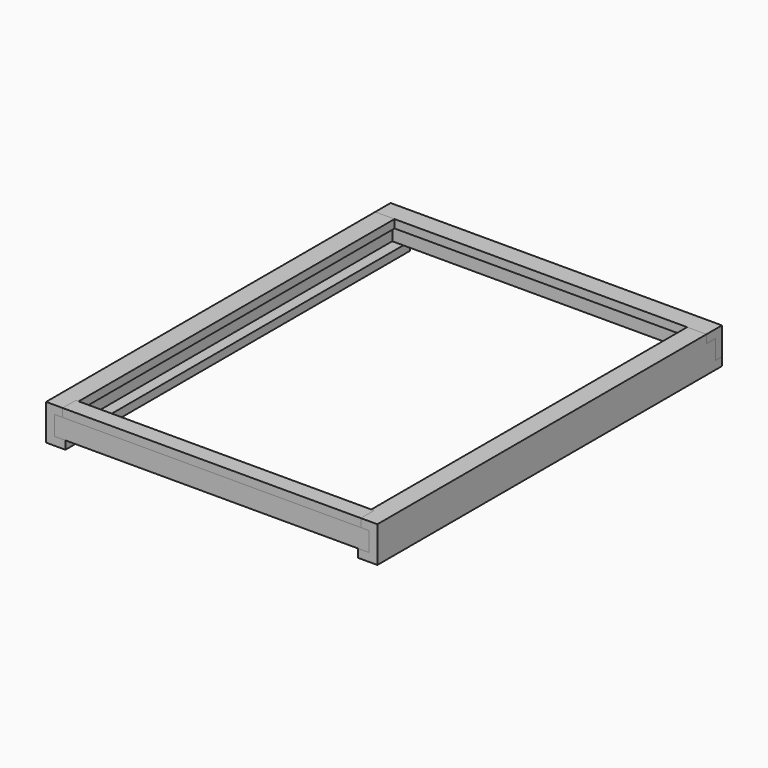
from build123d import *

# Parameters (mm, degrees)
F0_W      = 38.1
F0_H      = 88.9
F1_DEPTH  = 1981.2
F4_W      = 1524
F4_H      = 88.9
F5_DEPTH  = 38.1
F6_W      = 1524
F6_H      = 38.1
F7_DEPTH  = 88.9
F9_DEPTH  = 1524
F10_W     = 1447.8
F10_H     = 88.9
F11_DEPTH = 38.1
F12_W     = 1371.6
F12_H     = 38.1
F13_DEPTH = 76.2


with BuildPart() as f1:
    # F0 (on Front) → F1 (new body)
    with BuildSketch(Plane.XZ):
        Polygon((0, 38.1), (0, 0), (88.9, 0), (88.9, 38.1), (38.1, 38.1), align=None)
        with Locations((19.05, 82.55)):
            Rectangle(F0_W, F0_H)
        Polygon((0, 165.1), (0, 127), (38.1, 127), (88.9, 127), (88.9, 165.1), align=None)
    extrude(amount=-F1_DEPTH)


with BuildPart() as f3_1:
    # F3: instance of F1
    add(f1.part.mirror(Plane.YZ.offset(762)))


with BuildPart() as f5_tool:
    # F4 (on face) → F5 (new body)
    with BuildSketch(Plane.XY.offset(165.1)):
        with Locations((762, 1936.75)):
            Rectangle(F4_W, F4_H)
    extrude(amount=-F5_DEPTH)


with BuildPart() as f1_1:
    add(f1.part)

    # F5: cut by f5_tool
    add(f5_tool.part, mode=Mode.SUBTRACT)


with BuildPart() as f3_1_1:
    add(f3_1.part)

    # F5: cut by f5_tool
    add(f5_tool.part, mode=Mode.SUBTRACT)


with BuildPart() as f7_tool:
    # F6 (on face) → F7 (new body)
    with BuildSketch(Plane.XY.offset(127)):
        with Locations((762, 1962.15)):
            Rectangle(F6_W, F6_H)
        with Locations((762, 1962.15)):
            Rectangle(F6_W, F6_H)
    extrude(amount=-F7_DEPTH)


with BuildPart() as f1_2:
    add(f1_1.part)

    # F7: cut by f7_tool
    add(f7_tool.part, mode=Mode.SUBTRACT)


with BuildPart() as f3_1_2:
    add(f3_1_1.part)

    # F7: cut by f7_tool
    add(f7_tool.part, mode=Mode.SUBTRACT)


with BuildPart() as f9:
    # F8 (on face) → F9 (new body)
    with BuildSketch(Plane(origin=(0, 0, 0), x_dir=(0, -1, 0), z_dir=(-1, 0, 0))):
        Polygon((-1892.3, 127), (-1892.3, 165.1), (-1981.2, 165.1), (-1981.2, 38.1), (-1943.1, 38.1), (-1943.1, 127), align=None)
    extrude(amount=-F9_DEPTH)


with BuildPart() as f11:
    # F10 (on face) → F11 (new body)
    with BuildSketch(Plane.XZ):
        with Locations((762, 82.55)):
            Rectangle(F10_W, F10_H)
    extrude(amount=-F11_DEPTH)


with BuildPart() as f13:
    # F12 (on face) → F13 (new body)
    with BuildSketch(Plane.XZ):
        with Locations((762.156582, 146.05)):
            Rectangle(F12_W, F12_H)
    extrude(amount=-F13_DEPTH)


solid = Compound([f1_2.part, f3_1_2.part, f9.part, f11.part, f13.part])
